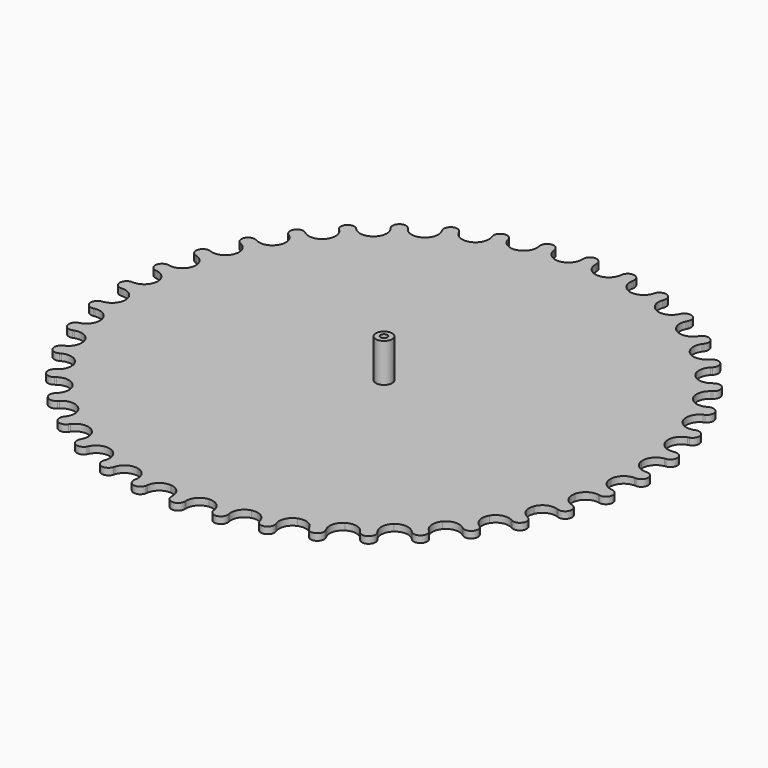
from build123d import *

# Parameters (mm, degrees)
F1_DEPTH = 1
F2_COUNT = 40
F3_R     = 2.4
F4_DEPTH = 12.5
F5_R     = 1
F6_DEPTH = 13.501


with BuildPart() as f1:
    # F0 (on Top) → F1 (new body, symmetric)
    with BuildSketch(Plane.XY):
        with BuildLine():
            Line((2, 76.002214), (2, 76.472969))
            ThreePointArc((2, 76.472969), (0, 78.472969), (-2, 76.472969))
            Line((-2, 76.472969), (-2, 76.002214))
            ThreePointArc((-2, 76.002214), (-3.057796, 73.299567), (-5.669119, 72.032984))
            Line((-5.669119, 72.032984), (0, 0))
            Line((0, 0), (5.669119, 72.032984))
            ThreePointArc((5.669119, 72.032984), (3.057796, 73.299567), (2, 76.002214))
        make_face()
    extrude(amount=F1_DEPTH, both=True)

    # F2: F1 ×40 about axis
    f2_axis = Axis((0, 0, 0), (0, 0, 1))


with BuildPart() as f1_1:
    add(f1.part)
    for i in range(1, F2_COUNT):
        add(f1.part.rotate(f2_axis, i * 360 / F2_COUNT))

    # F3 (on Top) → F4 (join)
    with BuildSketch(Plane.XY):
        Circle(F3_R)
    extrude(amount=F4_DEPTH)

    # F5 (on face) → F6 (cut, through all)
    with BuildSketch(Plane.XY.offset(12.5)):
        Circle(F5_R)
    extrude(amount=-F6_DEPTH, mode=Mode.SUBTRACT)


solid = f1_1.part
